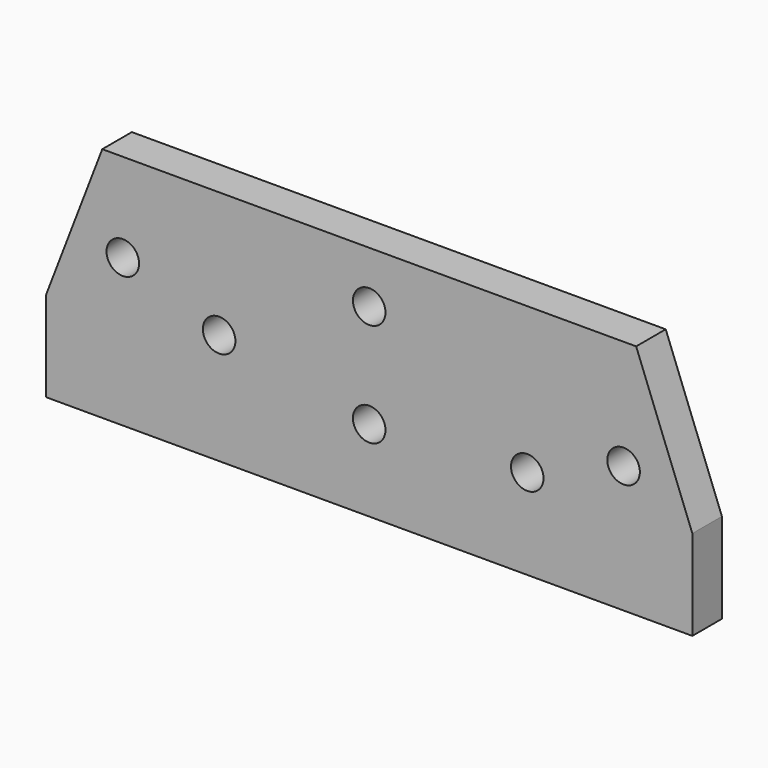
from build123d import *

# Parameters (mm, degrees)
F0_R     = 11
F1_DEPTH = 25


with BuildPart() as f1:
    # F0 (on Front) → F1 (new body)
    with BuildSketch(Plane.XZ):
        Polygon((-218.5, 61), (-218.5, 0), (218.5, 0), (218.5, 61), (180.5, 160), (-180.5, 160), align=None)
        with Locations((-101.491199, 75)):
            Circle(F0_R, mode=Mode.SUBTRACT)
        with Locations((0, 55)):
            Circle(F0_R, mode=Mode.SUBTRACT)
        with Locations((106.876374, 61)):
            Circle(F0_R, mode=Mode.SUBTRACT)
        with Locations((-166.622778, 100)):
            Circle(F0_R, mode=Mode.SUBTRACT)
        with Locations((172.007953, 86)):
            Circle(F0_R, mode=Mode.SUBTRACT)
        with Locations((0, 125)):
            Circle(F0_R, mode=Mode.SUBTRACT)
    extrude(amount=F1_DEPTH)


solid = f1.part
